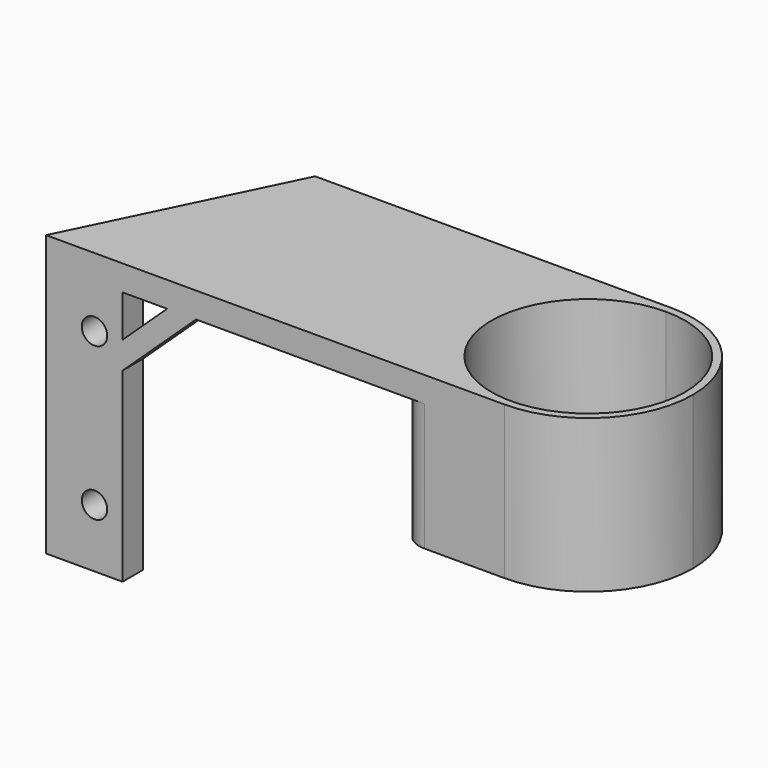
from build123d import *

# Parameters (mm, degrees)
F1_DEPTH  = 55
F3_DEPTH  = 50
F4_W      = 46.6654431075
F4_H      = 57.836631313
F5_DEPTH  = 25
F6_R      = 5
F8_D      = 5
F10_DEPTH = 5
F12_DEPTH = 2


with BuildPart() as f1:
    # F0 (on Top) → F1 (new body)
    with BuildSketch(Plane.XY):
        with BuildLine():
            ThreePointArc((0, -20.5), (14.4956890143, -14.4956890143), (20.5, 0))
            ThreePointArc((20.5, 0), (14.4956890143, 14.4956890143), (0, 20.5))
            ThreePointArc((0, 20.5), (-20.5, 0), (0, -20.5))
        make_face()
        with BuildLine():
            ThreePointArc((19, 0), (-13.4350288425, -13.4350288425), (0, 19))
            ThreePointArc((0, 19), (13.4350288425, 13.4350288425), (19, 0))
        make_face(mode=Mode.SUBTRACT)
        with BuildLine():
            ThreePointArc((0, -20.5), (-20.5, 0), (0, 20.5))
            Line((0, 20.5), (-70, 20.5))
            Line((-70, 20.5), (-90, -20.5))
            Line((-90, -20.5), (0, -20.5))
        make_face()
    extrude(amount=F1_DEPTH)

    # F2 (on face) → F3 (cut)
    with BuildSketch(Plane.XY):
        Polygon((-20.693905686, 24.13287099), (-92.3021333856, 24.13287099), (-92.6832251204, -12.49999901), (-75, -15.5), (-75, -22.0035649836), (-20.7452352142, -22.0035649836), align=None)
    extrude(amount=F3_DEPTH, mode=Mode.SUBTRACT)

    # F4 (on face) → F5 (cut)
    with BuildSketch(Plane.XY):
        with Locations((-0.7558101788, 1.7380928621)):
            Rectangle(F4_W, F4_H)
    extrude(amount=F5_DEPTH, mode=Mode.SUBTRACT)

    # F6
    f6_edges = [f1.edges().sort_by_distance(p)[0] for p in [
        (-20.697947, 20.5, 37.5),
        (-20.743562, -20.5, 37.5),
    ]]
    fillet(f6_edges, radius=F6_R)

    # F8 (through all)
    with Locations(Plane.XZ.offset(20.5)):
        with Locations((-80.5, 41.5), (-80.5, 11.5)):
            Hole(F8_D / 2)

    # F9 (on face) → F10 (join)
    with BuildSketch(Plane.XZ.offset(20.5)):
        Polygon((-66.2546011695, 50), (-75, 41.8011878794), (-75, 36.4798588918), (-60.5785174124, 50), align=None)
    extrude(amount=-F10_DEPTH)

    # F11 (on face) → F12 (join)
    with BuildSketch(Plane(origin=(-64.6227775108, 31.5233061028, 0), x_dir=(-0.438423632, -0.8987684456, 0), z_dir=(-0.8987684456, 0.438423632, 0))):
        Polygon((50.1299122344, 50), (38.5309847388, 50), (50.1299122344, 38.7167511187), align=None)
    extrude(amount=-F12_DEPTH)


solid = f1.part
